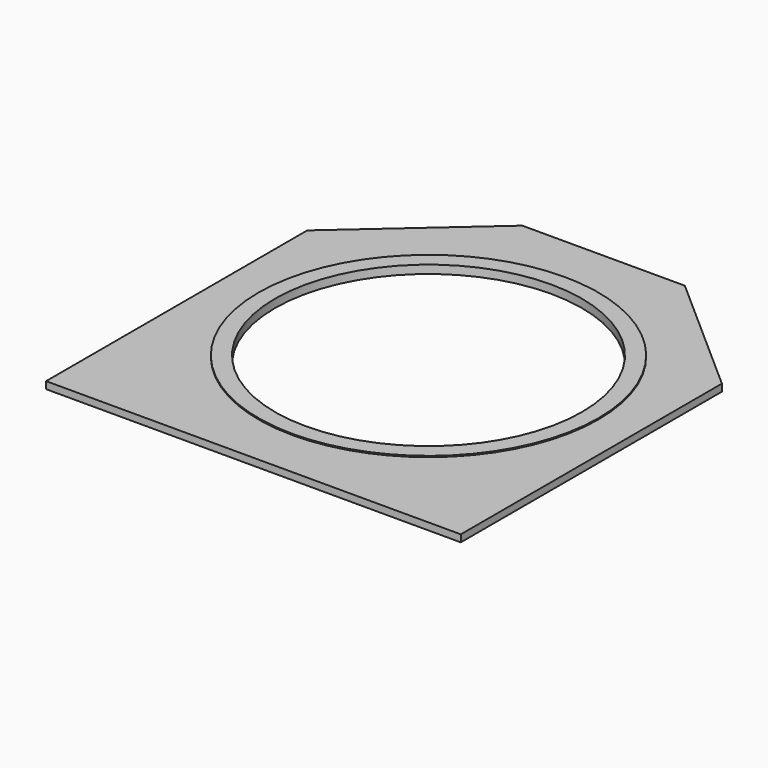
from build123d import *

# Parameters (mm, degrees)
F0_R     = 65
F1_DEPTH = 3
F2_R     = 72
F2_R_2   = 65
F3_DEPTH = 0.5


with BuildPart() as f1:
    # F0 (on Top) → F1 (new body)
    with BuildSketch(Plane.XY):
        Polygon((-87.825, -92.68), (87.825, -92.68), (87.825, 45.57), (34.43, 92.68), (-34.43, 92.68), (-87.825, 45.57), align=None)
        Circle(F0_R, mode=Mode.SUBTRACT)
    extrude(amount=F1_DEPTH)

    # F2 (on face) → F3 (join)
    with BuildSketch(Plane.XY.offset(3)):
        Circle(F2_R)
        Circle(F2_R_2, mode=Mode.SUBTRACT)
    extrude(amount=F3_DEPTH)


solid = f1.part
